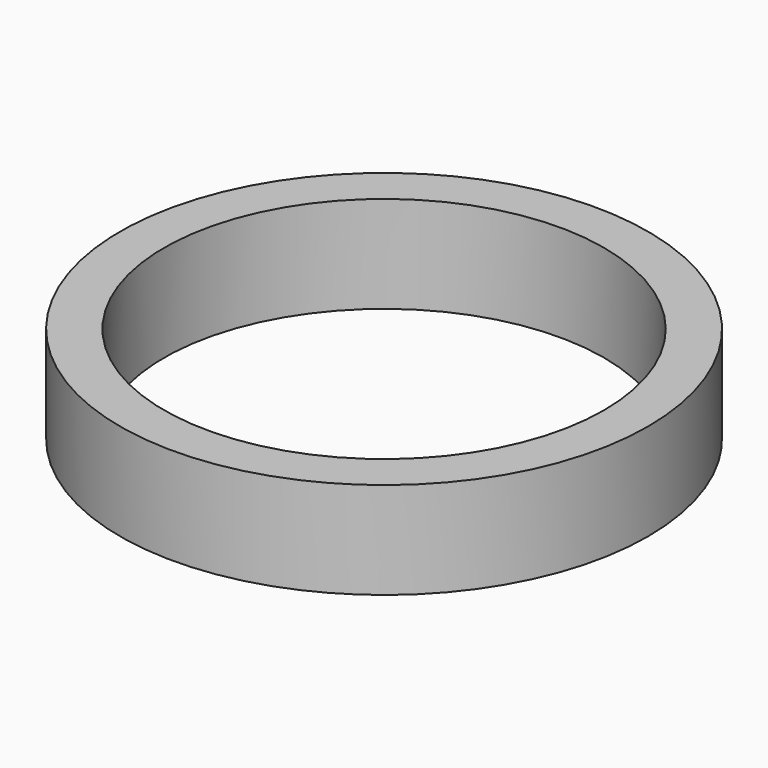
from build123d import *

# Parameters (mm, degrees)
SKETCH_R   = 30
SKETCH_R_2 = 25
PAD_DEPTH  = 11


with BuildPart() as part:
    # Sketch → Pad (new body)
    with BuildSketch(Plane.XY):
        Circle(SKETCH_R)
        Circle(SKETCH_R_2, mode=Mode.SUBTRACT)
    extrude(amount=PAD_DEPTH)


solid = part.part
